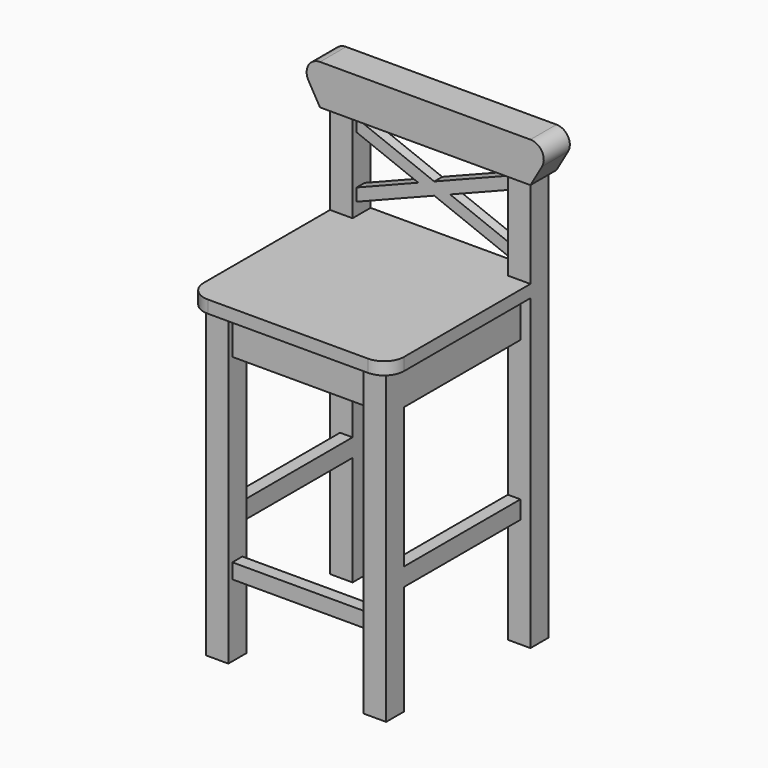
from build123d import *

# Parameters (mm, degrees)
F1_DEPTH      = 25
F2_W          = 45
F2_H          = 45
F3_DEPTH      = 615
F4_W          = 45
F4_H          = 45
F5_DEPTH      = 287
F5_DEPTH_BACK = 615
F6_W          = 25
F6_H          = 80
F6_H_2        = 36
F7_DEPTH      = 135
F7_DEPTH_BACK = 155
F8_W          = 25
F8_H          = 80
F8_H_2        = 30
F9_DEPTH      = 155
F9_DEPTH_BACK = 155
F12_DEPTH     = 32.5
F14_DEPTH     = 10


with BuildPart() as f1:
    # F0 (on Top) → F1 (new body)
    with BuildSketch(Plane.XY):
        with BuildLine():
            Line((155, 200), (-155, 200))
            Line((-155, 200), (-155, 155))
            Line((-155, 155), (-200, 155))
            Line((-200, 155), (-200, -160))
            ThreePointArc((-200, -160), (-188.2842712475, -188.2842712475), (-160, -200))
            Line((-160, -200), (160, -200))
            ThreePointArc((160, -200), (188.2842712475, -188.2842712475), (200, -160))
            Line((200, -160), (200, 155))
            Line((200, 155), (155, 155))
            Line((155, 155), (155, 200))
        make_face()
    extrude(amount=F1_DEPTH)

    # F2 (on Top) → F3 (join)
    with BuildSketch(Plane.XY):
        with Locations((157.5, -157.5)):
            Rectangle(F2_W, F2_H)
        with Locations((-157.5, -157.5)):
            Rectangle(F2_W, F2_H)
    extrude(amount=-F3_DEPTH)

    # F4 (on Top) → F5 (join, two sides)
    with BuildSketch(Plane.XY) as f5_sk:
        with Locations((-177.5, 177.5)):
            Rectangle(F4_W, F4_H)
        with Locations((177.5, 177.5)):
            Rectangle(F4_W, F4_H)
    extrude(amount=F5_DEPTH)
    extrude(f5_sk.sketch, amount=-F5_DEPTH_BACK)

    # F6 (on Front) → F7 (join, two sides)
    with BuildSketch(Plane.XZ) as f7_sk:
        with Locations((-167.5, -40)):
            Rectangle(F6_W, F6_H)
        with Locations((167.5, -40)):
            Rectangle(F6_W, F6_H)
        with Locations((-167.5, -378)):
            Rectangle(F6_W, F6_H_2)
        with Locations((167.5, -378)):
            Rectangle(F6_W, F6_H_2)
    extrude(amount=F7_DEPTH)
    extrude(f7_sk.sketch, amount=-F7_DEPTH_BACK)

    # F8 (on Right) → F9 (join, two sides)
    with BuildSketch(Plane.YZ) as f9_sk:
        with Locations((-157.5, -40)):
            Rectangle(F8_W, F8_H)
        with Locations((177.5, -40)):
            Rectangle(F8_W, F8_H)
        with Locations((-157.5, -456)):
            Rectangle(F8_W, F8_H_2)
    extrude(amount=F9_DEPTH)
    extrude(f9_sk.sketch, amount=-F9_DEPTH_BACK)

    # F11 (on offset) → F12 (join, symmetric)
    with BuildSketch(Plane.XZ.offset(-175)):
        with BuildLine():
            Line((210, 287), (-210, 287))
            ThreePointArc((-210, 287), (-233.0940107676, 273.6666666667), (-233.0940107676, 247))
            Line((-233.0940107676, 247), (-210, 207))
            Line((-210, 207), (210, 207))
            Line((210, 207), (233.0940107676, 247))
            ThreePointArc((233.0940107676, 247), (233.0940107676, 273.6666666667), (210, 287))
        make_face()
    extrude(amount=F12_DEPTH, both=True)

    # F13 (on offset) → F14 (join, symmetric)
    with BuildSketch(Plane.XZ.offset(-175)):
        Polygon((-155, 75), (-155, 50), (0, 111), (-31.762295082, 123.5), align=None)
        Polygon((-31.762295082, 123.5), (0, 111), (31.762295082, 123.5), (0, 136), align=None)
        Polygon((31.762295082, 123.5), (0, 111), (155, 50), (155, 75), align=None)
        Polygon((0, 136), (31.762295082, 123.5), (155, 172), (155, 197), align=None)
        Polygon((-155, 172), (-31.762295082, 123.5), (0, 136), (-155, 197), align=None)
    extrude(amount=F14_DEPTH, both=True)


solid = f1.part
